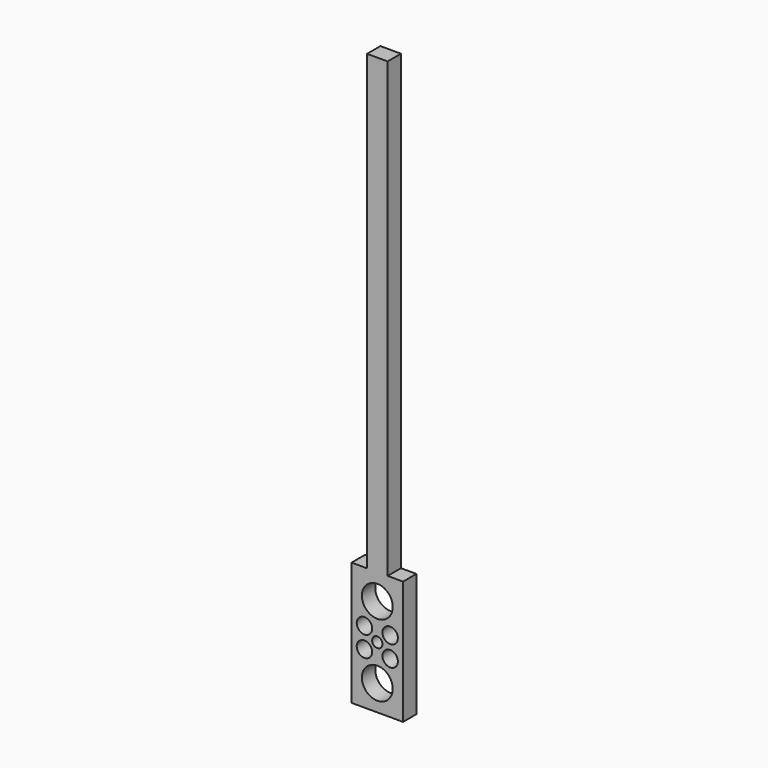
from build123d import *

# Parameters (mm, degrees)
F0_W     = 12.7
F0_H     = 558.8
F1_DEPTH = 20.6375
F2_R     = 19.05
F2_R_2   = 9.525
F3_DEPTH = 25.4


with BuildPart() as f1:
    # F0 (on Front) → F1 (new body)
    with BuildSketch(Plane.XZ):
        Polygon((-63.5, 0), (0, 0), (0, 152.4), (-19.05, 152.4), (-31.75, 152.4), (-44.45, 152.4), (-63.5, 152.4), align=None)
        with Locations((-25.4, 431.8)):
            Rectangle(F0_W, F0_H)
        with Locations((-38.1, 431.8)):
            Rectangle(F0_W, F0_H)
    extrude(amount=F1_DEPTH)

    # F2 (on face) → F3 (cut)
    with BuildSketch(Plane.XZ.offset(20.6375)):
        with Locations((-31.75, 31.75)):
            Circle(F2_R)
        with Locations((-47.625, 63.5)):
            Circle(F2_R_2)
        with Locations((-15.875, 63.5)):
            Circle(F2_R_2)
        with BuildLine():
            ThreePointArc((-38.1, 76.2), (-31.75, 69.85), (-25.4, 76.2))
            Line((-25.4, 76.2), (-38.1, 76.2))
        make_face()
        with BuildLine():
            Line((-38.1, 76.2), (-25.4, 76.2))
            ThreePointArc((-25.4, 76.2), (-31.75, 82.55), (-38.1, 76.2))
        make_face()
        with Locations((-47.625, 88.9)):
            Circle(F2_R_2)
        with Locations((-15.875, 88.9)):
            Circle(F2_R_2)
        with Locations((-31.75, 120.65)):
            Circle(F2_R)
    extrude(amount=-F3_DEPTH, mode=Mode.SUBTRACT)


solid = f1.part
